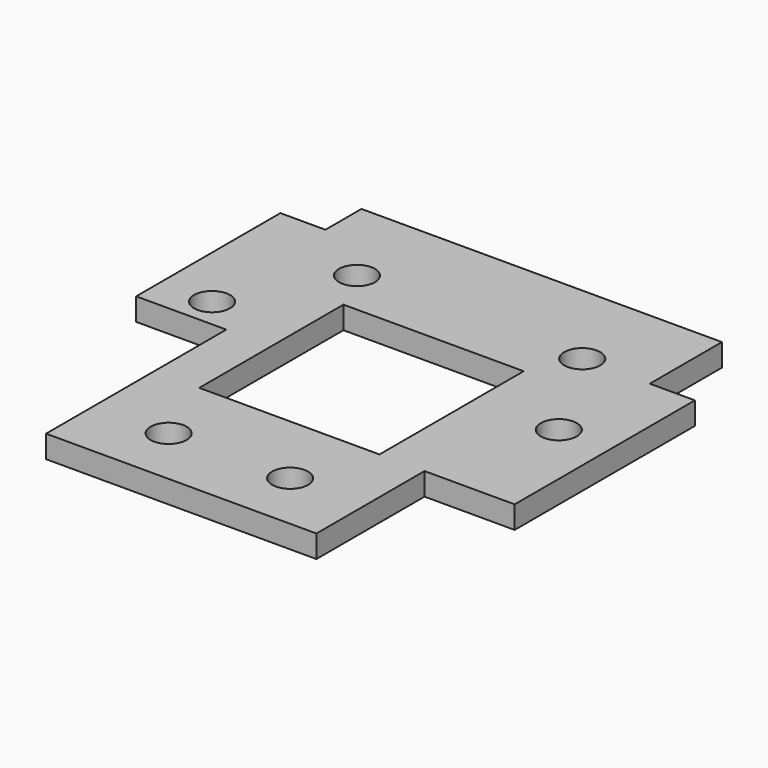
from build123d import *

# Parameters (mm, degrees)
F0_R     = 4
F0_W     = 40
F0_H     = 40
F1_DEPTH = 5


with BuildPart() as f1:
    # F0 (on Top) → F1 (new body)
    with BuildSketch(Plane.XY):
        Polygon((40, 50), (-40, 50), (-40, 40), (-50, 40), (-50, 0), (-30, 0), (-30, -50), (30, -50), (30, -20), (50, -20), (50, 30), (40, 30), align=None)
        with Locations((-13.480762, -36.650635)):
            Circle(F0_R, mode=Mode.SUBTRACT)
        with Locations((13.480762, -36.650635)):
            Circle(F0_R, mode=Mode.SUBTRACT)
        with Locations((-38.480762, 6.650635)):
            Circle(F0_R, mode=Mode.SUBTRACT)
        with Locations((-25, 30)):
            Circle(F0_R, mode=Mode.SUBTRACT)
        Rectangle(F0_W, F0_H, mode=Mode.SUBTRACT)
        with Locations((38.480762, 6.650635)):
            Circle(F0_R, mode=Mode.SUBTRACT)
        with Locations((25, 30)):
            Circle(F0_R, mode=Mode.SUBTRACT)
    extrude(amount=F1_DEPTH)


solid = f1.part
